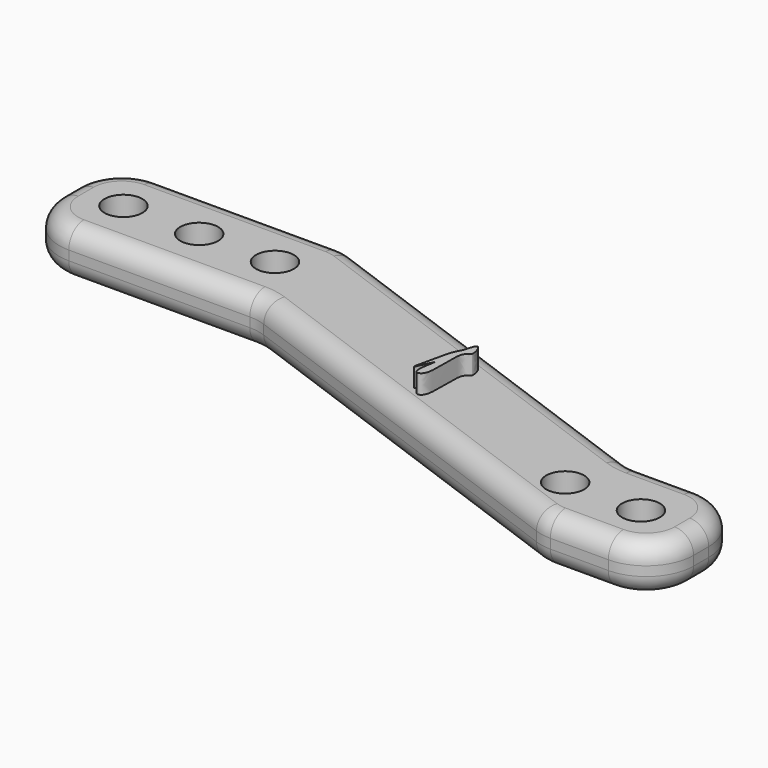
from build123d import *

# Parameters (mm, degrees)
F0_W     = 25
F0_H     = 12
F0_W_2   = 12
F1_DEPTH = 5
F2_R     = 2
F3_DEPTH = 5.001
F4_R     = 5
F5_R     = 2
F7_DEPTH = 2


with BuildPart() as f1:
    # F0 (on Top) → F1 (new body)
    with BuildSketch(Plane.XY):
        with Locations((12.5, -6)):
            Rectangle(F0_W, F0_H)
        Polygon((67.2861679354, -15.3909064497), (25, 0), (25, -12), (67.2861679354, -27.3909064497), align=None)
        with Locations((73.2861679354, -21.3909064497)):
            Rectangle(F0_W_2, F0_H)
    extrude(amount=F1_DEPTH)

    # F2 (on face) → F3 (cut, through all)
    with BuildSketch(Plane.XY.offset(5)):
        with Locations((6, -6.0338899493)):
            Circle(F2_R)
        with Locations((14, -6.0338899493)):
            Circle(F2_R)
        with Locations((22, -6.0338899493)):
            Circle(F2_R)
        with Locations((65.2861679354, -21.8369364738)):
            Circle(F2_R)
        with Locations((73.2861679354, -21.8369364738)):
            Circle(F2_R)
    extrude(amount=-F3_DEPTH, mode=Mode.SUBTRACT)

    # F4
    f4_edges = [f1.edges().sort_by_distance(p)[0] for p in [
        (0, -12, 2.5),
        (25, -12, 2.5),
        (67.286168, -27.390906, 2.5),
        (79.286168, -27.390906, 2.5),
        (79.286168, -15.390906, 2.5),
        (67.286168, -15.390906, 2.5),
        (25, 0, 2.5),
        (0, 0, 2.5),
    ]]
    fillet(f4_edges, radius=F4_R)

    # F5
    f5_edges = [f1.edges().sort_by_distance(p)[0] for p in [
        (46.143084, -19.695453, 5),
        (14.559183, -12, 5),
        (46.143084, -7.695453, 5),
        (14.559183, 0, 5),
        (71.226985, -27.390906, 5),
        (71.226985, -15.390906, 0),
        (46.143084, -19.695453, 0),
        (14.559183, -12, 0),
        (1.464466, -10.535534, 5),
        (77.821702, -25.92644, 5),
        (1.464466, -10.535534, 0),
        (77.821702, -25.92644, 0),
        (77.821702, -16.855373, 0),
        (77.821702, -16.855373, 5),
        (67.299562, -15.314945, 5),
        (24.986606, -0.075961, 5),
        (1.464466, -1.464466, 5),
        (71.226985, -15.390906, 5),
        (14.559183, 0, 0),
        (46.143084, -7.695453, 0),
    ]]
    fillet(f5_edges, radius=F5_R)

    # F6 (on face) → F7 (join)
    with BuildSketch(Plane.XY.offset(5)):
        with BuildLine():
            add(Edge.make_bspline(
                [(47.3567992449, -11.6654224694), (47.2888963827, -11.9563420747), (46.2057874332, -11.9090361454), (47.1376077103, -17.0733329533), (45.1904946436, -17.3360831477), (46.3699009978, -13.2327722684), (44.5794073063, -17.9817649234), (45.547030732, -13.9314737857), (45.706271636, -13.1672561604), (45.9648119532, -12.2875153063), (46.4294177593, -11.6464192133), (46.801947255, -9.6173824314), (47.4432832928, -11.2948945668), (47.3567992449, -11.6654224694)],
                knots=[0, 0, 0, 0, 0.0683100799, 0.2275161013, 0.2907381634, 0.3998425791, 0.500595722, 0.613473173, 0.6931791468, 0.758236336, 0.8313691245, 0.9129973018, 1, 1, 1, 1], degree=3))
        make_face()
    extrude(amount=F7_DEPTH)


solid = f1.part
